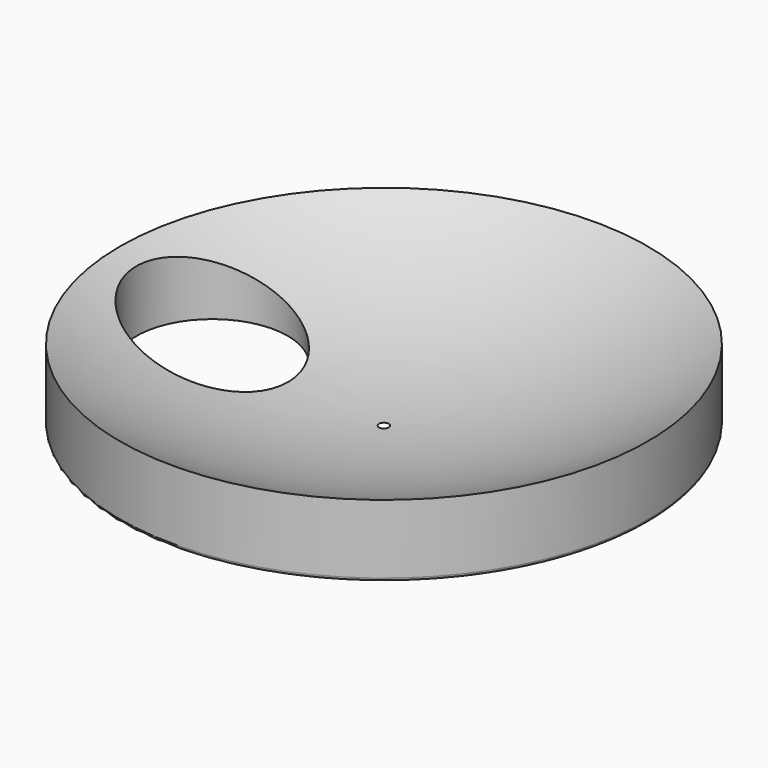
from build123d import *

# Parameters (mm, degrees)
SKETCH_R     = 20
POCKET_DEPTH = 25


with BuildPart() as part:
    # Sketch001 → Revolution (revolve)
    with BuildSketch(Plane.XZ):
        with BuildLine():
            Line((-69.862679, 1.020552), (-69.862679, 19.191302))
            ThreePointArc((-69.862679, 19.191302), (-36.230147, 4.903049), (0, 0.140929))
            Line((-68.983056, 0.140929), (0, 0.140929))
            ThreePointArc((-69.862679, 1.020552), (-69.605043, 0.398564), (-68.983056, 0.140929))
        make_face()
    revolve(axis=Axis((0, 0, 0), (0, 0, 1)))

    # Sketch → Pocket (cut, symmetric)
    with BuildSketch(Plane.XY):
        with Locations((-44.996451, -0.565161)):
            Circle(SKETCH_R)
    extrude(amount=POCKET_DEPTH, both=True, mode=Mode.SUBTRACT)


solid = part.part
